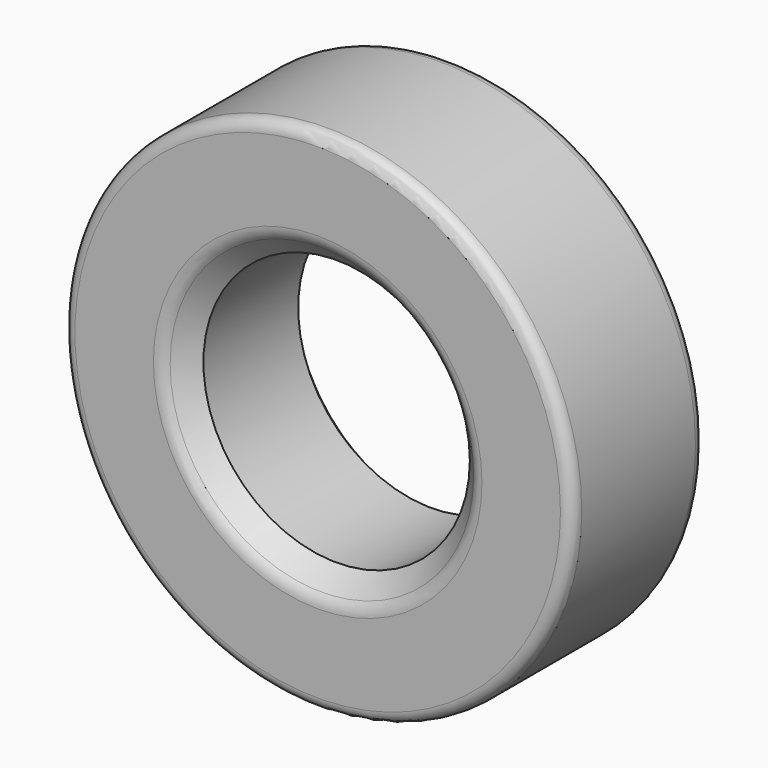
from build123d import *

# Parameters (mm, degrees)
CYLINDER050_R     = 22.5
CYLINDER050_DEPTH = 28
CYLINDER049_R     = 43
CYLINDER049_DEPTH = 28
FILLET_R          = 2
CHAMFER_SIZE      = 4
FILLET010_R       = 3


with BuildPart() as cylinder050:
    # Cylinder050 → Cylinder050 (new body)
    with BuildSketch(Plane.XZ):
        Circle(CYLINDER050_R)
    extrude(amount=CYLINDER050_DEPTH)


with BuildPart() as wheel_wide_left:
    # Cylinder049 → Cylinder049 (new body)
    with BuildSketch(Plane.XZ):
        Circle(CYLINDER049_R)
    extrude(amount=CYLINDER049_DEPTH)

    # Cut019: cut Cylinder050
    add(cylinder050.part, mode=Mode.SUBTRACT)

    # Fillet
    fillet_edges = [wheel_wide_left.edges().sort_by_distance(p)[0] for p in [
        (-43, -28, 0),
        (-43, 0, 0),
    ]]
    fillet(fillet_edges, radius=FILLET_R)

    # Chamfer
    chamfer_edges = [wheel_wide_left.edges().sort_by_distance(p)[0] for p in [
        (-22.5, 0, 0),
        (-22.5, -28, 0),
    ]]
    chamfer(chamfer_edges, length=CHAMFER_SIZE)

    # Fillet010
    fillet010_edges = [wheel_wide_left.edges().sort_by_distance(p)[0] for p in [
        (-26.5, 0, 0),
        (-26.5, -28, 0),
    ]]
    fillet(fillet010_edges, radius=FILLET010_R)


with BuildPart() as wheel_wide_left_1:
    # Fillet010 placement: moved
    add(wheel_wide_left.part.moved(Location((0, -63, 0))))


solid = wheel_wide_left_1.part
